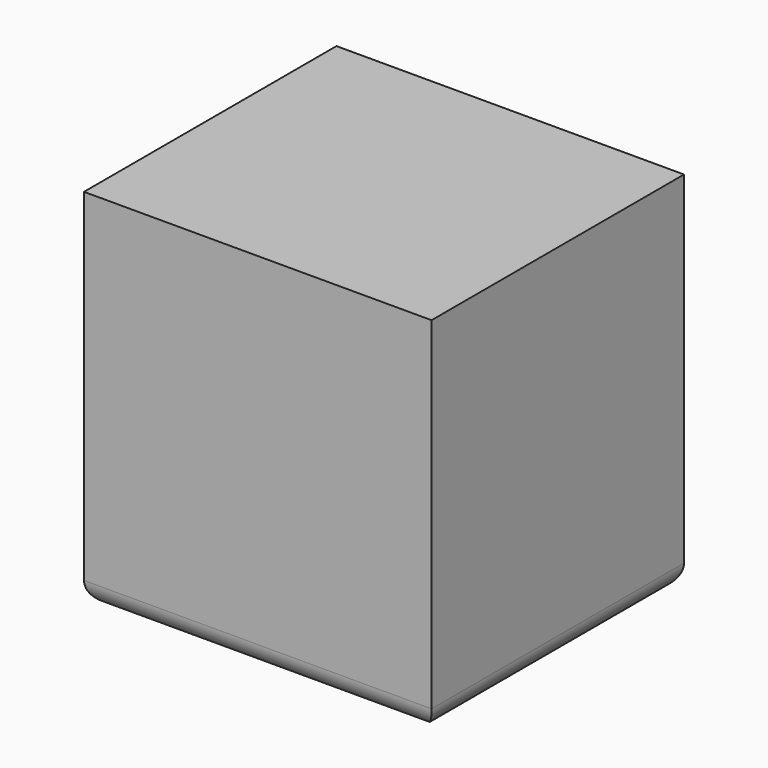
from build123d import *

# Parameters (mm, degrees)
F1_DEPTH = 40
F2_R     = 5


with BuildPart() as f1:
    # F0 (on Top) → F1 (new body, symmetric)
    with BuildSketch(Plane.XY):
        Polygon((-38.100004, -34.5948), (38.100004, -34.5948), (38.100004, 34.5948), (0, 34.5948), (-38.100004, 34.5948), align=None)
    extrude(amount=F1_DEPTH, both=True)

    # F2
    f2_edges = [f1.edges().sort_by_distance(p)[0] for p in [
        (0, -34.5948, -40),
        (38.100004, 0, -40),
        (0, 34.5948, -40),
        (-38.100004, 0, -40),
    ]]
    fillet(f2_edges, radius=F2_R)


solid = f1.part
